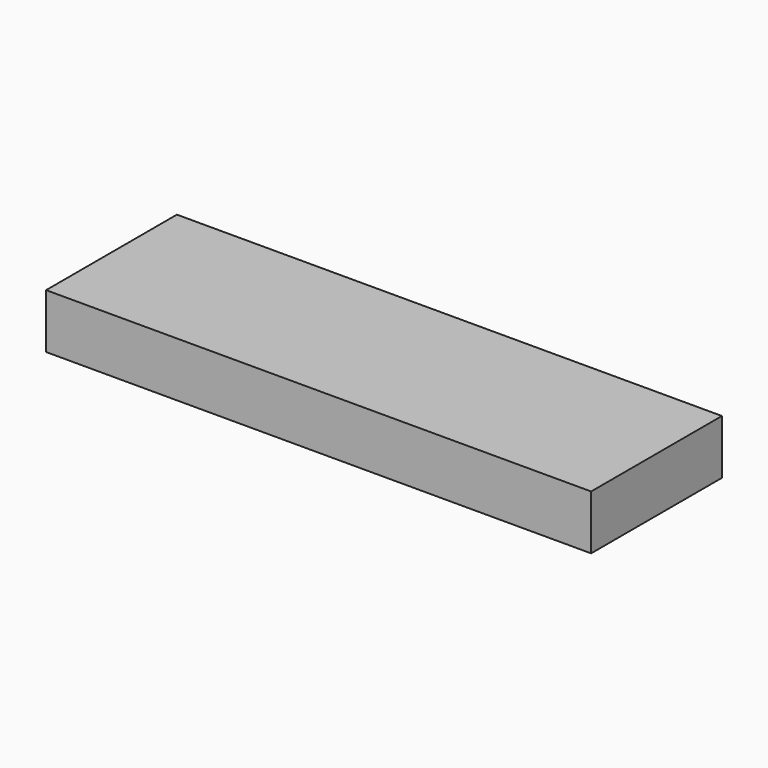
from build123d import *

# Parameters (mm, degrees)
BEAM_W     = 100
BEAM_H     = 30
BEAM_DEPTH = 10


with BuildPart() as part:
    # Beam → Beam (new body)
    with BuildSketch(Plane.XY):
        with Locations((50, 15)):
            Rectangle(BEAM_W, BEAM_H)
    extrude(amount=BEAM_DEPTH)


solid = part.part
